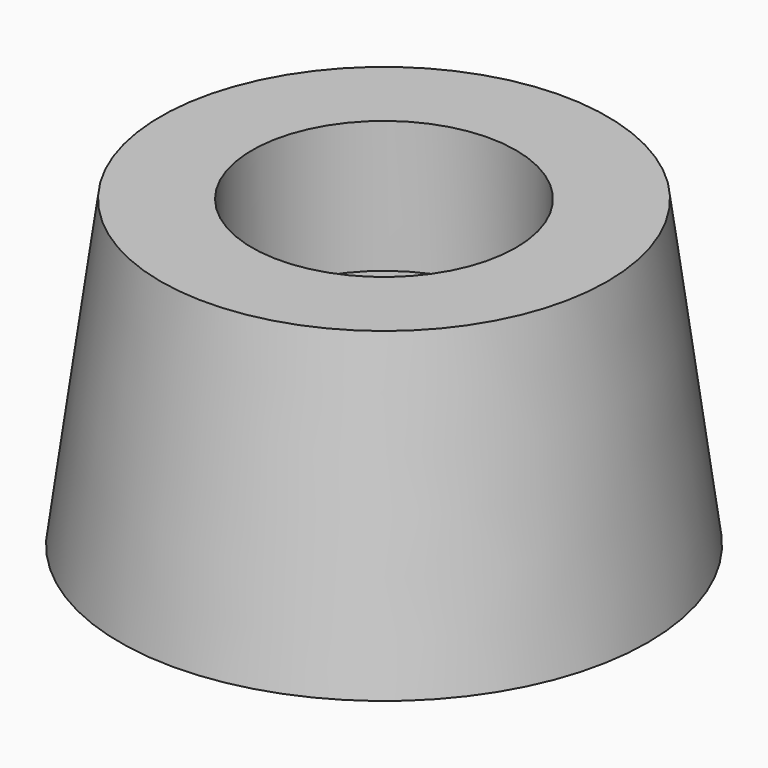
from build123d import *

# Parameters (mm, degrees)
SKETCH001_R     = 11
SKETCH_R        = 13
SKETCH002_R     = 3
POCKET_DEPTH    = 15.001
SKETCH003_R     = 6.5
POCKET001_DEPTH = 6.501


with BuildPart() as part:
    # Sketch001 (on DatumPlane) → AdditiveLoft section 0
    with BuildSketch(Plane.XY.offset(15)):
        Circle(SKETCH001_R)
    # Sketch → AdditiveLoft section 1
    with BuildSketch(Plane.XY):
        Circle(SKETCH_R)
    loft()

    # Sketch002 → Pocket (cut, through all)
    with BuildSketch(Plane.XY):
        Circle(SKETCH002_R)
    extrude(amount=POCKET_DEPTH, mode=Mode.SUBTRACT)

    # Sketch003 (on DatumPlane) → Pocket001 (cut, through all)
    with BuildSketch(Plane.XY.offset(8.5)):
        Circle(SKETCH003_R)
    extrude(amount=POCKET001_DEPTH, mode=Mode.SUBTRACT)


solid = part.part
